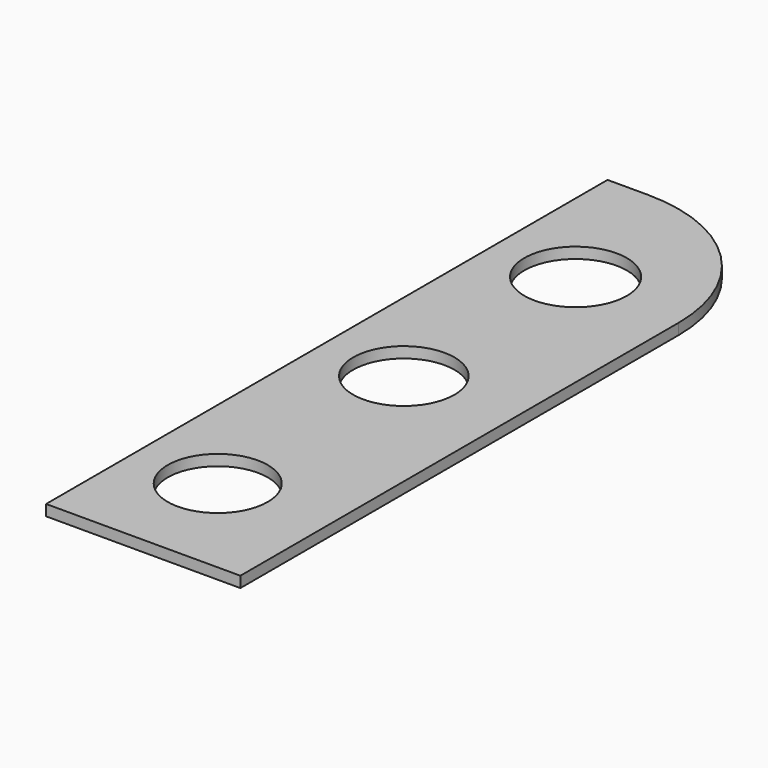
from build123d import *

# Parameters (mm, degrees)
F0_R     = 2.065
F0_R_2   = 2.09
F0_R_3   = 2.115
F1_DEPTH = 0.45


with BuildPart() as f1:
    # F0 (on Top) → F1 (new body)
    with BuildSketch(Plane.XY):
        with BuildLine():
            Line((-3.426704, -4.572198), (4.592284, -4.572198))
            Line((4.592284, -4.572198), (4.592284, 18.041616))
            ThreePointArc((4.592284, 18.041616), (2.732412, 22.531744), (-1.757716, 24.391616))
            Line((-1.757716, 24.391616), (-3.426704, 24.391616))
            Line((-3.426704, 24.391616), (-3.426704, -4.572198))
        make_face()
        Circle(F0_R, mode=Mode.SUBTRACT)
        with Locations((0, 9.599831)):
            Circle(F0_R_2, mode=Mode.SUBTRACT)
        with Locations((0, 18.460673)):
            Circle(F0_R_3, mode=Mode.SUBTRACT)
    extrude(amount=F1_DEPTH)


solid = f1.part
